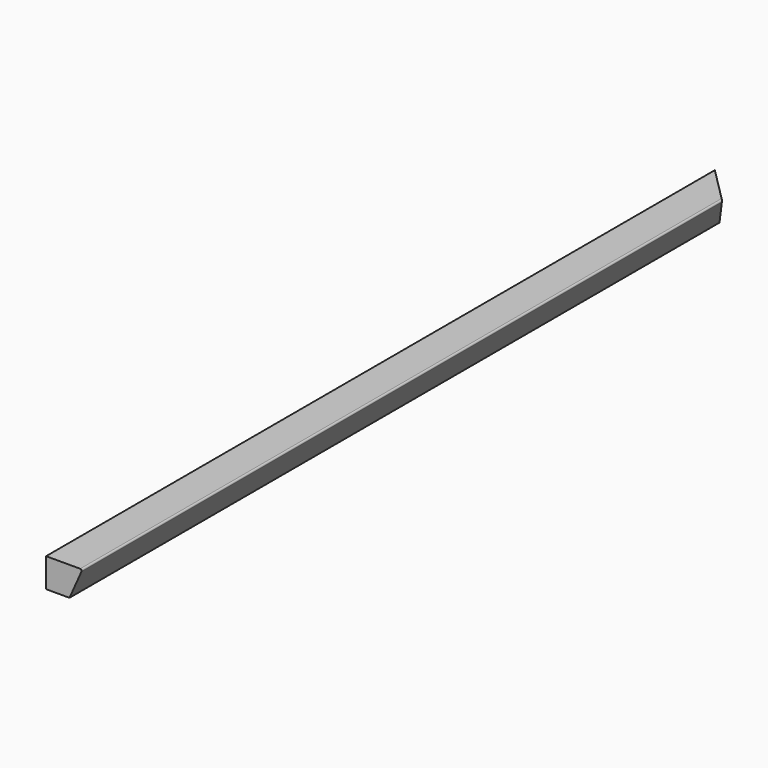
from build123d import *

# Parameters (mm, degrees)
F1_DEPTH = 1150
F2_R     = 2
F4_DEPTH = 40.001


with BuildPart() as f1:
    # F0 (on Front) → F1 (new body)
    with BuildSketch(Plane.XZ):
        Polygon((0, 40), (0, 0), (32.190853, 0), (50, 40), align=None)
    extrude(amount=F1_DEPTH)

    # F2
    f2_edges = [f1.edges().sort_by_distance(p)[0] for p in [
        (50, -575, 40),
    ]]
    fillet(f2_edges, radius=F2_R)

    # F3 (on face) → F4 (cut, through all)
    with BuildSketch(Plane.XY.offset(40)):
        Polygon((46.92027, 0), (46.92027, -46.92027), (57.095478, -57.095478), (57.004068, 0), align=None)
        Polygon((46.92027, 0), (0, 0), (46.92027, -46.92027), align=None)
    extrude(amount=-F4_DEPTH, mode=Mode.SUBTRACT)


solid = f1.part
